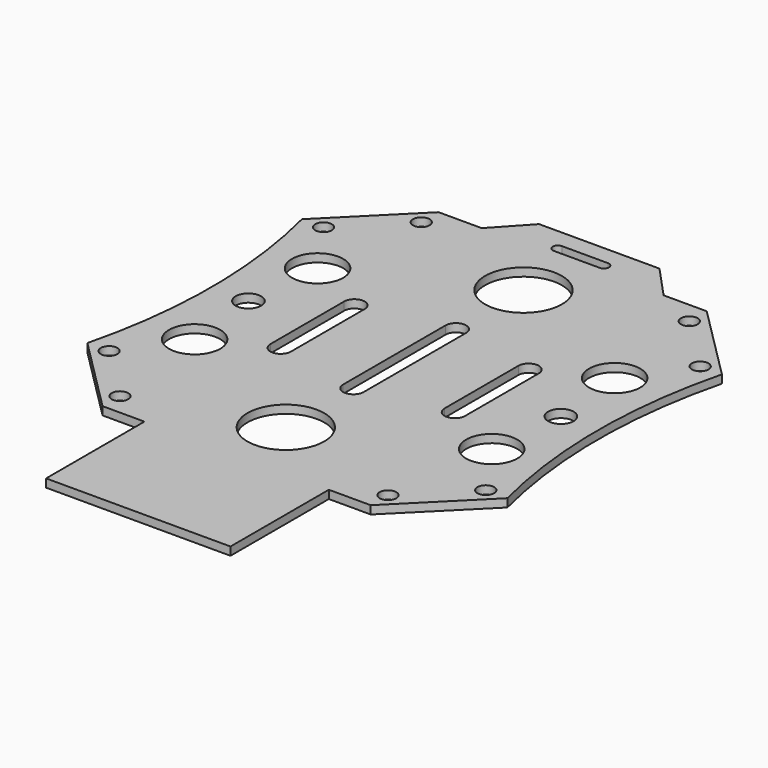
from build123d import *

# Parameters (mm, degrees)
F0_R     = 1.625
F0_R_2   = 5
F0_R_3   = 7.5
F0_R_4   = 2.5
F1_DEPTH = 1.6002


with BuildPart() as f1:
    # F0 (on Top) → F1 (new body)
    with BuildSketch(Plane.XY):
        with BuildLine():
            Line((11.75, 47.5), (-11.75, 47.5))
            Line((-11.75, 47.5), (-17.75, 41))
            Line((-17.75, 41), (-26.175144, 41))
            Line((-26.175144, 41), (-41, 26.175144))
            ThreePointArc((-41, 26.175144), (-37.75, 0), (-41, -26.175144))
            Line((-41, -26.175144), (-26.175144, -41))
            Line((-26.175144, -41), (-18, -41))
            Line((-18, -41), (-18, -65))
            Line((-18, -65), (18, -65))
            Line((18, -65), (18, -41))
            Line((18, -41), (26.175144, -41))
            Line((26.175144, -41), (41, -26.175144))
            ThreePointArc((41, -26.175144), (37.75, 0), (41, 26.175144))
            Line((41, 26.175144), (26.175144, 41))
            Line((26.175144, 41), (17.75, 41))
            Line((17.75, 41), (11.75, 47.5))
        make_face()
        with Locations((-36.769553, -26.162951)):
            Circle(F0_R, mode=Mode.SUBTRACT)
        with Locations((-26.162951, -36.769553)):
            Circle(F0_R, mode=Mode.SUBTRACT)
        with Locations((-29, -15)):
            Circle(F0_R_2, mode=Mode.SUBTRACT)
        with Locations((0, -29)):
            Circle(F0_R_3, mode=Mode.SUBTRACT)
        with Locations((26.162951, -36.769553)):
            Circle(F0_R, mode=Mode.SUBTRACT)
        with Locations((36.769553, -26.162951)):
            Circle(F0_R, mode=Mode.SUBTRACT)
        with Locations((29, -15)):
            Circle(F0_R_2, mode=Mode.SUBTRACT)
        with Locations((-30.5, 0)):
            Circle(F0_R_4, mode=Mode.SUBTRACT)
        with Locations((-29, 15)):
            Circle(F0_R_2, mode=Mode.SUBTRACT)
        with BuildLine():
            Line((-19, -9), (-19, 9))
            ThreePointArc((-19, 9), (-17, 11), (-15, 9))
            Line((-15, 9), (-15, -9))
            ThreePointArc((-15, -9), (-17, -11), (-19, -9))
        make_face(mode=Mode.SUBTRACT)
        with Locations((-36.769553, 26.162951)):
            Circle(F0_R, mode=Mode.SUBTRACT)
        with Locations((-26.162951, 36.769553)):
            Circle(F0_R, mode=Mode.SUBTRACT)
        with BuildLine():
            Line((-2, -12.5), (-2, 12.5))
            ThreePointArc((-2, 12.5), (0, 14.5), (2, 12.5))
            Line((2, 12.5), (2, -12.5))
            ThreePointArc((2, -12.5), (0, -14.5), (-2, -12.5))
        make_face(mode=Mode.SUBTRACT)
        with BuildLine():
            Line((19, 9), (19, -9))
            ThreePointArc((19, -9), (17, -11), (15, -9))
            Line((15, -9), (15, 9))
            ThreePointArc((15, 9), (17, 11), (19, 9))
        make_face(mode=Mode.SUBTRACT)
        with Locations((30.5, 0)):
            Circle(F0_R_4, mode=Mode.SUBTRACT)
        with Locations((29, 15)):
            Circle(F0_R_2, mode=Mode.SUBTRACT)
        with Locations((0, 29)):
            Circle(F0_R_3, mode=Mode.SUBTRACT)
        with BuildLine():
            ThreePointArc((-4.5, 42), (-5.5, 43), (-4.5, 44))
            Line((-4.5, 44), (4.5, 44))
            ThreePointArc((4.5, 44), (5.5, 43), (4.5, 42))
            Line((4.5, 42), (-4.5, 42))
        make_face(mode=Mode.SUBTRACT)
        with Locations((36.769553, 26.162951)):
            Circle(F0_R, mode=Mode.SUBTRACT)
        with Locations((26.162951, 36.769553)):
            Circle(F0_R, mode=Mode.SUBTRACT)
    extrude(amount=F1_DEPTH)


solid = f1.part
